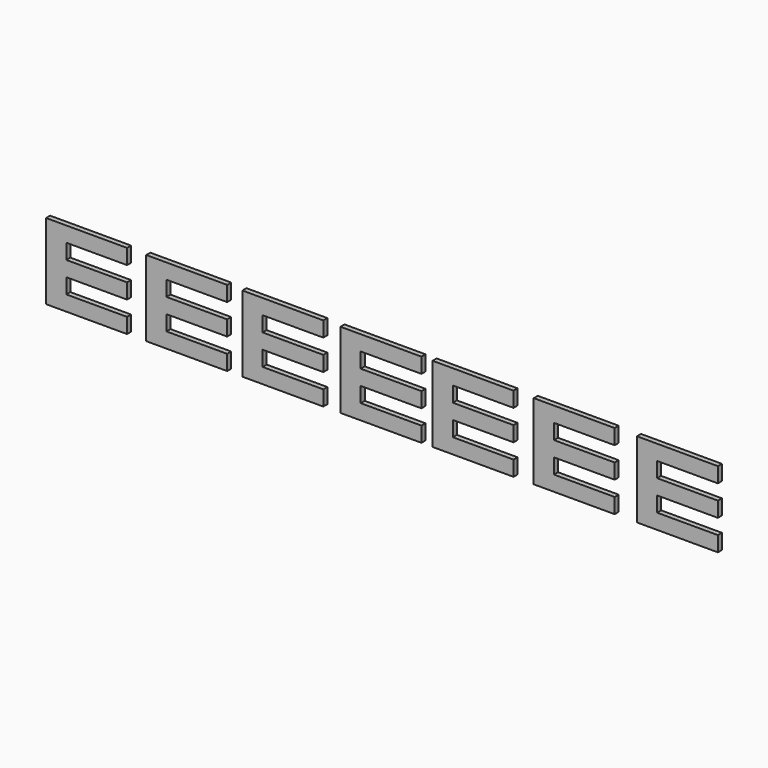
from build123d import *

# Parameters (mm, degrees)
F1_DEPTH = 5


with BuildPart() as f1:
    # F0 (on Front) → F1 (new body)
    with BuildSketch(Plane.XZ):
        Polygon((32.5, 37.5), (-47.5, 37.5), (-47.5, -37.5), (32.5, -37.5), (32.5, -22.5), (-27.5, -22.5), (-27.5, -7.5), (32.5, -7.5), (32.5, 7.5), (-27.5, 7.5), (-27.5, 22.5), (32.5, 22.5), align=None)
    extrude(amount=F1_DEPTH)


with BuildPart() as f2_1:
    # F2: copy of F1
    add(f1.part.moved(Location((-95, 0, 0))))


with BuildPart() as f3_1:
    # F3: copy of F2_1
    add(f2_1.part.moved(Location((-99, 0, 0))))


with BuildPart() as f4_1:
    # F4: copy of F1
    add(f1.part.moved(Location((97, 0, 0))))


with BuildPart() as f5_1:
    # F5: copy of F4_1
    add(f4_1.part.moved(Location((91, 0, 0))))


with BuildPart() as f6_1:
    # F6: copy of F5_1
    add(f5_1.part.moved(Location((100, 0, 0))))


with BuildPart() as f7_1:
    # F7: copy of F6_1
    add(f6_1.part.moved(Location((102, 0, 0))))


solid = Compound([f1.part, f2_1.part, f3_1.part, f4_1.part, f5_1.part, f6_1.part, f7_1.part])
